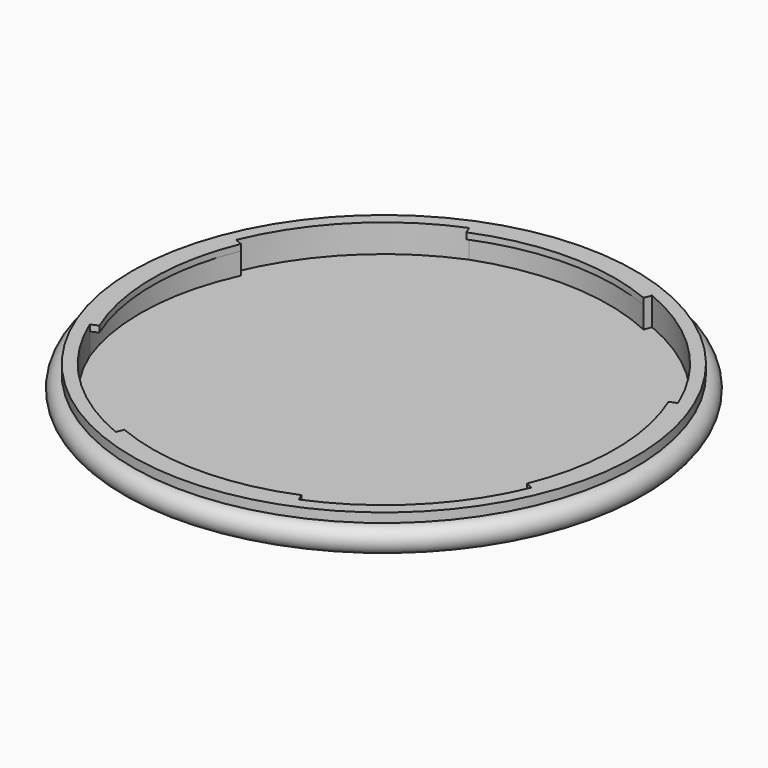
from build123d import *

# Parameters (mm, degrees)
PAD001_DEPTH = 1
PAD_DEPTH    = 5.5


with BuildPart() as part:
    # Sketch (on XZ_Plane of Origin) → Revolution (revolve)
    with BuildSketch(Plane.XZ):
        with BuildLine():
            Line((0, 0), (0, 1))
            Line((0, 1), (-38.5, 1))
            Line((-38.5, 1), (-38.5, 5.5))
            Line((-38.5, 5.5), (-40.5, 5.5))
            Line((-40.5, 5.5), (-40.5, 4))
            ThreePointArc((-40.5, 4), (-42.5, 2), (-40.5, 0))
            Line((0, 0), (-40.5, 0))
        make_face()
    revolve(axis=Axis((0, 0, 0), (0, 0, 1)))

    # Sketch001 (on Face3 of Revolution) → Pad001 (new body)
    with BuildSketch(Plane.XY.offset(5.5)):
        with BuildLine():
            ThreePointArc((14.733312, 35.569362), (0, 38.5), (-14.733312, 35.569362))
            Line((-14.254958, 34.414513), (-14.733312, 35.569362))
            ThreePointArc((14.254958, 34.414513), (0, 37.25), (-14.254958, 34.414513))
            Line((14.254958, 34.414513), (14.733312, 35.569362))
        make_face()
        with BuildLine():
            ThreePointArc((34.414513, -14.254958), (37.25, 0), (34.414513, 14.254958))
            Line((34.414513, 14.254958), (35.569362, 14.733312))
            ThreePointArc((35.569362, -14.733312), (38.5, 0), (35.569362, 14.733312))
            Line((34.414513, -14.254958), (35.569362, -14.733312))
        make_face()
        with BuildLine():
            ThreePointArc((-14.254958, -34.414513), (0, -37.25), (14.254958, -34.414513))
            Line((14.254958, -34.414513), (14.733312, -35.569362))
            ThreePointArc((-14.733312, -35.569362), (0, -38.5), (14.733312, -35.569362))
            Line((-14.733312, -35.569362), (-14.254958, -34.414513))
        make_face()
        with BuildLine():
            ThreePointArc((-34.414513, 14.254958), (-37.25, 0), (-34.414513, -14.254958))
            Line((-34.414513, -14.254958), (-35.569362, -14.733312))
            ThreePointArc((-35.569362, 14.733312), (-38.5, 0), (-35.569362, -14.733312))
            Line((-35.569362, 14.733312), (-34.414513, 14.254958))
        make_face()
    extrude(amount=-PAD001_DEPTH)

    # Sketch002 (on Face4 of Pad001) → Pad (join)
    with BuildSketch(Plane.XY.offset(5.5)):
        with BuildLine():
            Line((-35.569362, 14.733312), (-34.414513, 14.254958))
            ThreePointArc((-34.414513, 14.254958), (-37.875, -0.12432), (-35.569362, -14.733312))
            ThreePointArc((-35.569362, 14.733312), (-38.5, 0), (-35.569362, -14.733312))
        make_face()
        with BuildLine():
            ThreePointArc((14.733312, 35.569362), (0, 38.5), (-14.733312, 35.569362))
            ThreePointArc((14.254958, 34.414513), (-0.12432, 37.875), (-14.733312, 35.569362))
            Line((14.733312, 35.569362), (14.254958, 34.414513))
        make_face()
        with BuildLine():
            ThreePointArc((35.569362, -14.733312), (38.5, 0), (35.569362, 14.733312))
            ThreePointArc((34.414513, -14.254958), (37.875, 0.12432), (35.569362, 14.733312))
            Line((35.569362, -14.733312), (34.414513, -14.254958))
        make_face()
        with BuildLine():
            ThreePointArc((-14.733312, -35.569362), (0, -38.5), (14.733312, -35.569362))
            ThreePointArc((-14.254958, -34.414513), (0.12432, -37.875), (14.733312, -35.569362))
            Line((-14.733312, -35.569362), (-14.254958, -34.414513))
        make_face()
    extrude(amount=-PAD_DEPTH)


solid = part.part
